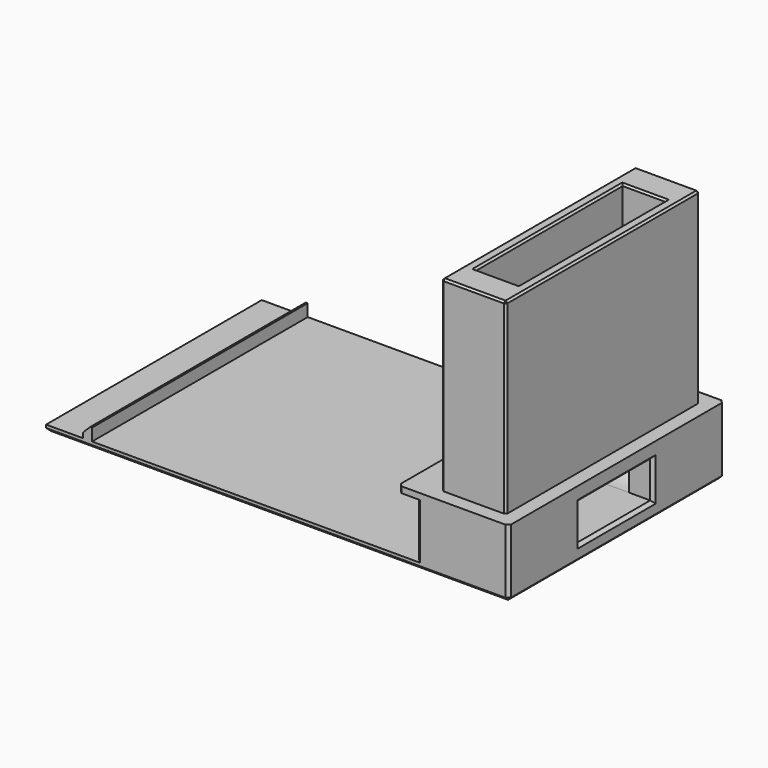
from build123d import *

# Parameters (mm, degrees)
SKETCH032_W     = 75.5
SKETCH032_H     = 44
PAD015_DEPTH    = 1
SKETCH033_W     = 15
SKETCH033_H     = 44
PAD016_DEPTH    = 9
SKETCH034_W     = 18
SKETCH034_H     = 44
PAD017_DEPTH    = 1
SKETCH035_W     = 10.5
SKETCH035_H     = 39.5
PAD018_DEPTH    = 30.5
SKETCH036_W     = 7
SKETCH036_H     = 30
POCKET009_DEPTH = 39
SKETCH037_W     = 15
SKETCH037_H     = 6
POCKET010_DEPTH = 15
SKETCH044_W     = 1.5
SKETCH044_H     = 44
PAD023_DEPTH    = 2
CHAMFER042_SIZE = 1.2
FILLET010_R     = 7.5
CHAMFER043_SIZE = 0.5
CHAMFER049_SIZE = 0.3


with BuildPart() as part:
    # Sketch032 → Pad015 (new body)
    with BuildSketch(Plane.XY):
        with Locations((-30.25, 0)):
            Rectangle(SKETCH032_W, SKETCH032_H)
    extrude(amount=-PAD015_DEPTH)

    # Sketch033 (on Face5 of Pad015) → Pad016 (join)
    with BuildSketch(Plane.XY):
        Rectangle(SKETCH033_W, SKETCH033_H)
    extrude(amount=PAD016_DEPTH)

    # Sketch034 (on Face5 of Pad016) → Pad017 (join)
    with BuildSketch(Plane.XY.offset(9)):
        with Locations((-1.5, 0)):
            Rectangle(SKETCH034_W, SKETCH034_H)
    extrude(amount=PAD017_DEPTH)

    # Sketch035 (on Face7 of Pad017) → Pad018 (join)
    with BuildSketch(Plane.XY.offset(10)):
        Rectangle(SKETCH035_W, SKETCH035_H)
    extrude(amount=PAD018_DEPTH)

    # Sketch036 (on Face15 of Pad018) → Pocket009 (cut)
    with BuildSketch(Plane.XY.offset(40.5)):
        Rectangle(SKETCH036_W, SKETCH036_H)
    extrude(amount=-POCKET009_DEPTH, mode=Mode.SUBTRACT)

    # Sketch037 (on Face6 of Pocket009) → Pocket010 (cut)
    with BuildSketch(Plane.YZ.offset(7.5)):
        with Locations((0, 4.5)):
            Rectangle(SKETCH037_W, SKETCH037_H)
    extrude(amount=-POCKET010_DEPTH, mode=Mode.SUBTRACT)

    # Sketch044 (on Face4 of Pocket010) → Pad023 (join)
    with BuildSketch(Plane.XY):
        with Locations((-61.25, 0)):
            Rectangle(SKETCH044_W, SKETCH044_H)
    extrude(amount=PAD023_DEPTH)

    # Chamfer042
    chamfer042_edges = [part.edges().sort_by_distance(p)[0] for p in [
        (-62, 0, 2),
    ]]
    chamfer(chamfer042_edges, length=CHAMFER042_SIZE)

    # Fillet010
    fillet010_edges = [part.edges().sort_by_distance(p)[0] for p in [
        (0, 15, 1.5),
        (0, -15, 1.5),
    ]]
    fillet(fillet010_edges, radius=FILLET010_R)

    # Chamfer043
    chamfer043_edges = [part.edges().sort_by_distance(p)[0] for p in [
        (-7.5, 7.5, 4.5),
        (-7.5, 0, 7.5),
        (-7.5, -7.5, 4.5),
        (-7.5, 0, 1.5),
        (7.5, 7.5, 4.5),
        (7.5, 0, 1.5),
        (7.5, -7.5, 4.5),
        (7.5, 0, 7.5),
        (7.5, -22, 4.5),
        (7.5, 22, 4.5),
        (7.5, 0, -1),
        (-7.5, -22, 4.5),
        (-30.25, -22, -1),
        (-68, 0, -1),
        (-30.25, 22, -1),
        (-7.5, 22, 4.5),
        (-10.5, -22, 9.5),
        (-10.5, 22, 9.5),
    ]]
    chamfer(chamfer043_edges, length=CHAMFER043_SIZE)

    # Chamfer049
    chamfer049_edges = [part.edges().sort_by_distance(p)[0] for p in [
        (5.25, -19.75, 25.25),
        (-5.25, -19.75, 25.25),
        (5.25, 19.75, 25.25),
        (0, 19.75, 40.5),
        (-5.25, 0, 40.5),
        (5.25, 0, 40.5),
        (0, -19.75, 40.5),
        (-3.5, 0, 40.5),
        (0, -15, 40.5),
        (3.5, 0, 40.5),
        (0, 15, 40.5),
        (-5.25, 19.75, 25.25),
    ]]
    chamfer(chamfer049_edges, length=CHAMFER049_SIZE)


with BuildPart() as part_1:
    # Body007 placement: moved
    add(part.part.moved(Location((106.5, -22, -136))))


solid = part_1.part
